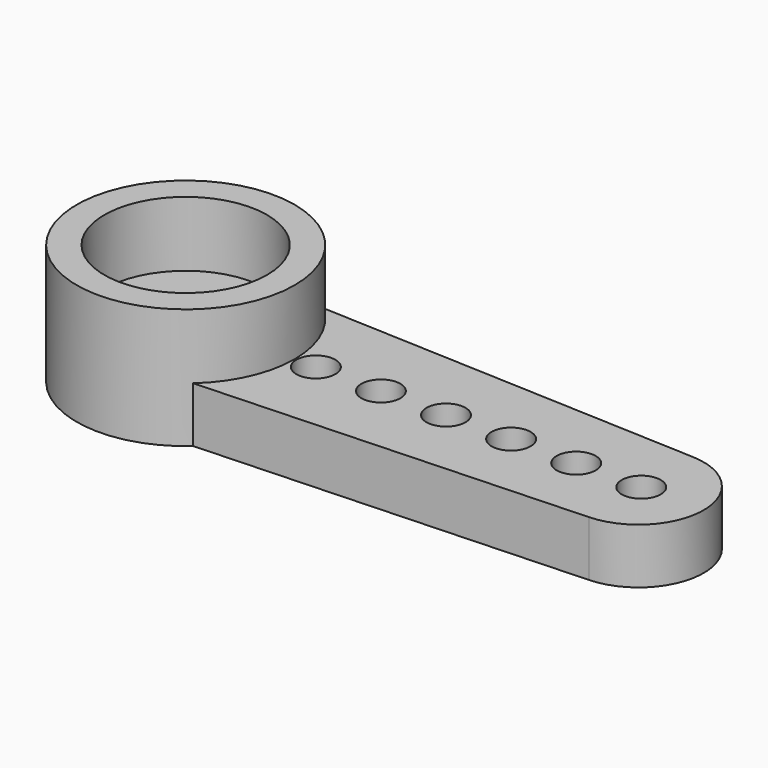
from build123d import *

# Parameters (mm, degrees)
F0_R     = 0.6
F1_DEPTH = 1.7
F2_R     = 3.35
F3_DEPTH = 2
F4_R     = 2.5
F5_DEPTH = 1
F6_R     = 1.1
F7_DEPTH = 2.701
F8_R     = 2.5
F9_DEPTH = 2


with BuildPart() as f1:
    # F0 (on Top) → F1 (new body)
    with BuildSketch(Plane.XY):
        with BuildLine():
            ThreePointArc((2.2299103121, -2.5), (3.057180036, -1.369726333), (3.35, 0))
            ThreePointArc((3.35, 0), (3.057180036, 1.369726333), (2.2299103121, 2.5))
            ThreePointArc((2.2299103121, 2.5), (-3.35, 0), (2.2299103121, -2.5))
        make_face()
        with BuildLine():
            ThreePointArc((2.2299103121, 2.5), (3.057180036, 1.369726333), (3.35, 0))
            ThreePointArc((3.35, 0), (3.057180036, -1.369726333), (2.2299103121, -2.5))
            Line((2.2299103121, -2.5), (14, -2))
            ThreePointArc((14, -2), (15.9168426648, 0), (14, 2))
            Line((14, 2), (2.2299103121, 2.5))
        make_face()
        with Locations((4, 0)):
            Circle(F0_R, mode=Mode.SUBTRACT)
        with Locations((6, 0)):
            Circle(F0_R, mode=Mode.SUBTRACT)
        with Locations((8, 0)):
            Circle(F0_R, mode=Mode.SUBTRACT)
        with Locations((10, 0)):
            Circle(F0_R, mode=Mode.SUBTRACT)
        with Locations((12, 0)):
            Circle(F0_R, mode=Mode.SUBTRACT)
        with Locations((14, 0)):
            Circle(F0_R, mode=Mode.SUBTRACT)
    extrude(amount=F1_DEPTH)

    # F2 (on face) → F3 (join)
    with BuildSketch(Plane.XY.offset(1.7)):
        Circle(F2_R)
    extrude(amount=F3_DEPTH)

    # F4 (on face) → F5 (cut)
    with BuildSketch(Plane(origin=(0, 0, 0), x_dir=(1, 0, 0), z_dir=(0, 0, -1))):
        Circle(F4_R)
    extrude(amount=-F5_DEPTH, mode=Mode.SUBTRACT)

    # F6 (on face) → F7 (cut, through all)
    with BuildSketch(Plane(origin=(0, 0, 1), x_dir=(1, 0, 0), z_dir=(0, 0, -1))):
        Circle(F6_R)
    extrude(amount=-F7_DEPTH, mode=Mode.SUBTRACT)

    # F8 (on face) → F9 (cut)
    with BuildSketch(Plane.XY.offset(3.7)):
        Circle(F8_R)
    extrude(amount=-F9_DEPTH, mode=Mode.SUBTRACT)


solid = f1.part
